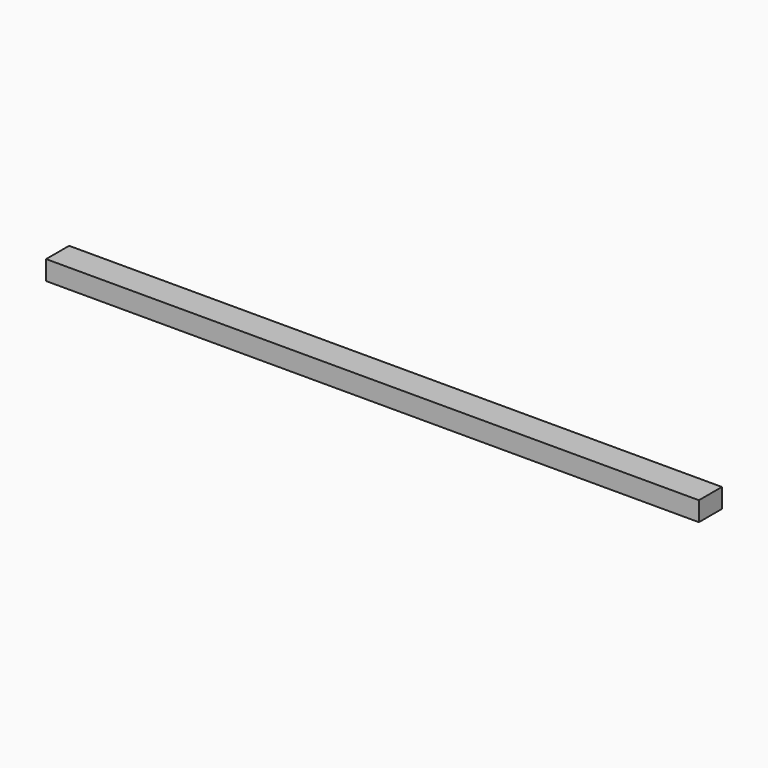
from build123d import *

# Parameters (mm, degrees)
F0_W     = 374.65
F0_H     = 19.05
F1_DEPTH = 11.1125
F2_SIZE  = 2.54


with BuildPart() as f1:
    # F0 (on Top) → F1 (new body)
    with BuildSketch(Plane.XY):
        Rectangle(F0_W, F0_H)
    extrude(amount=F1_DEPTH)

    # F2
    f2_edges = [f1.edges().sort_by_distance(p)[0] for p in [
        (0, 9.525, 11.1125),
        (187.325, 9.525, 5.55625),
        (-187.325, 9.525, 5.55625),
    ]]
    chamfer(f2_edges, length=F2_SIZE)


solid = f1.part
